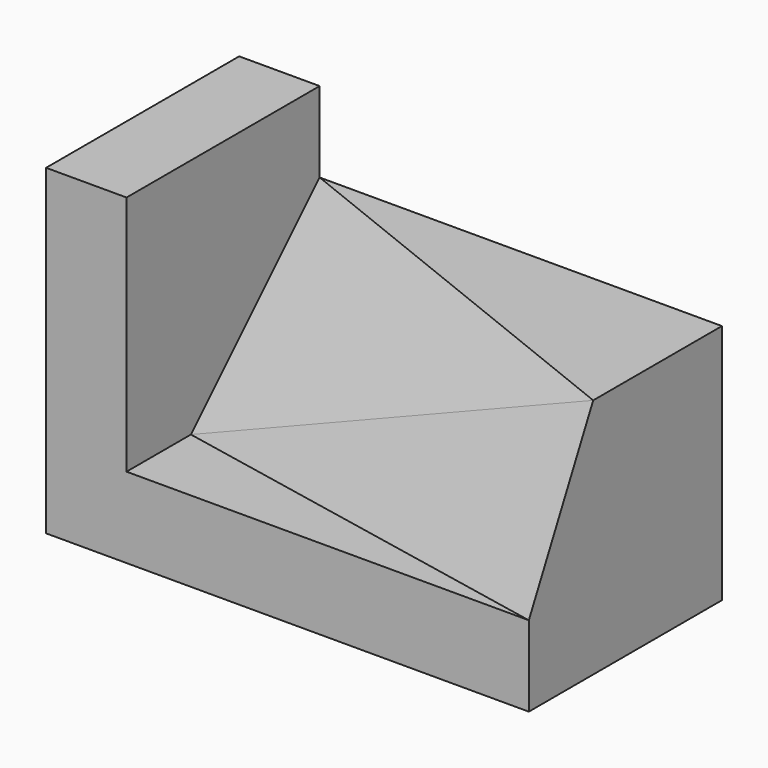
from build123d import *

# Parameters (mm, degrees)
F0_W      = 5
F0_H      = 3
F1_DEPTH  = 3
F3_DEPTH  = 2
F7_DEPTH  = 25
F10_DEPTH = 25
F11_W     = 1
F11_H     = 3
F12_DEPTH = 4


with BuildPart() as f1:
    # F0 (on Top) → F1 (new body)
    with BuildSketch(Plane.XY):
        with Locations((2.5, 1.5)):
            Rectangle(F0_W, F0_H)
    extrude(amount=F1_DEPTH)

    # F2 (on face) → F3 (cut)
    with BuildSketch(Plane.XY.offset(3)):
        Polygon((0, 1), (0, 0), (5, 0), align=None)
    extrude(amount=-F3_DEPTH, mode=Mode.SUBTRACT)

    # F6 (on 3pt) → F7 (cut)
    with BuildSketch(Plane(origin=(0.0775193798, 0.3875968992, -0.1937984496), x_dir=(-0.9843740387, 0.1574998462, -0.0787499231), z_dir=(0.1760901813, 0.8804509063, -0.4402254532))):
        Polygon((-5.0006201166, 0.894427191), (0.0787499231, 1.3416407865), (-5.0006201166, 3.1304951685), (-5.7256841101, 3.1304951685), (-5.7256841101, 0.894427191), align=None)
    extrude(amount=-F7_DEPTH, mode=Mode.SUBTRACT)

    # F9 (on 3pt) → F10 (cut)
    with BuildSketch(Plane(origin=(0, 0, 0), x_dir=(-0.9622504486, 0.1924500897, -0.1924500897), z_dir=(0.272165527, 0.6804138174, -0.6804138174))):
        Polygon((0, 4.2426406871), (-5.1961524227, 2.8284271247), (-5.4761668739, 1.7995883358), (0, 1.4142135624), align=None)
    extrude(amount=-F10_DEPTH, mode=Mode.SUBTRACT)

    # F11 (on Top) → F12 (join)
    with BuildSketch(Plane.XY):
        with Locations((-0.5, 1.5)):
            Rectangle(F11_W, F11_H)
    extrude(amount=F12_DEPTH)


solid = f1.part
